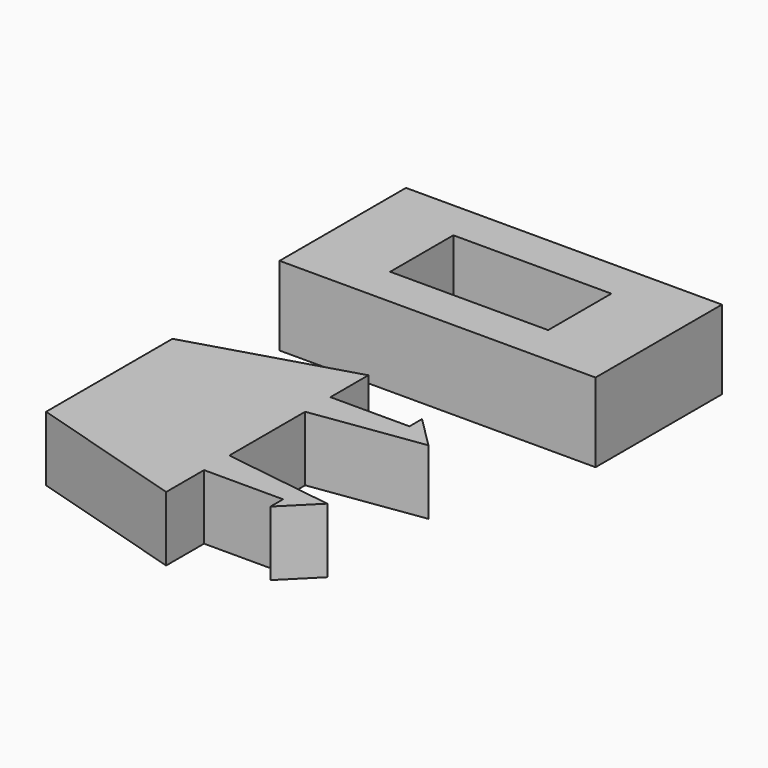
from build123d import *

# Parameters (mm, degrees)
F0_W     = 20
F0_H     = 10.000001
F2_DEPTH = 5
F1_W     = 10
F1_H     = 5
F3_DEPTH = 5.001
F5_DEPTH = 4.1


with BuildPart() as f2:
    # F0 (on Top) → F2 (new body)
    with BuildSketch(Plane.XY):
        with Locations((10, 5)):
            Rectangle(F0_W, F0_H)
    extrude(amount=F2_DEPTH)

    # F1 (on face) → F3 (cut, through all)
    with BuildSketch(Plane.XY):
        with Locations((10, 5.000001)):
            Rectangle(F1_W, F1_H)
    extrude(amount=F3_DEPTH, mode=Mode.SUBTRACT)


with BuildPart() as f5:
    # F4 (on Top) → F5 (new body)
    with BuildSketch(Plane.XY):
        Polygon((15, -7.475967), (15, -8.475967), (10, -8.475967), (10, -5.475967), (0, -8.475967), (0, -18.475967), (10, -21.475967), (10, -18.475967), (15, -18.475967), (15, -19.475967), (17, -17.475967), (10, -16.475967), (10, -10.475967), (17, -9.475967), align=None)
    extrude(amount=F5_DEPTH)


solid = Compound([f2.part, f5.part])
